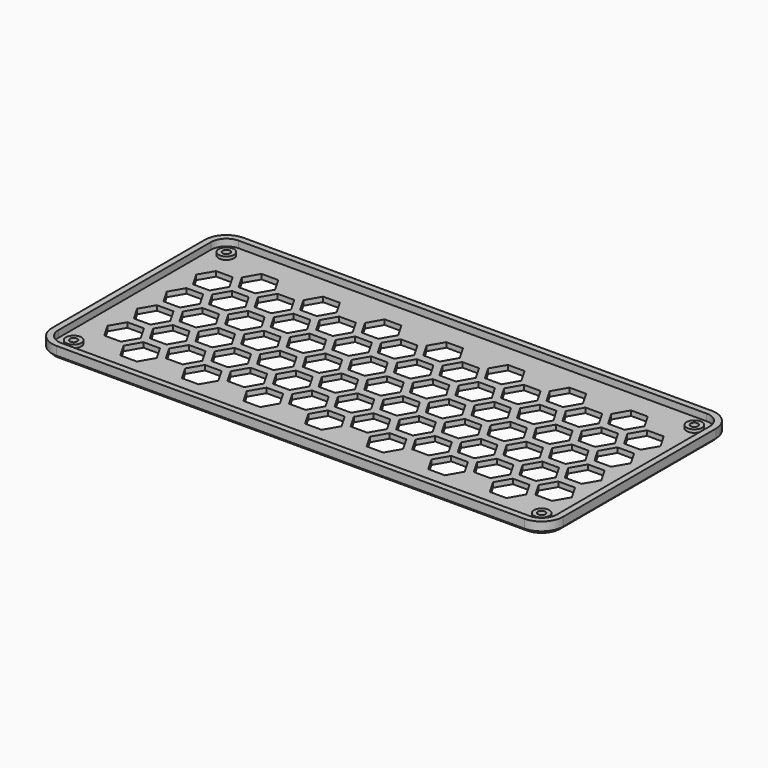
from build123d import *

# Parameters (mm, degrees)
PAD_DEPTH       = 2.032
PAD001_DEPTH    = 2.794
SKETCH002_R     = 3.175
PAD002_DEPTH    = 1.27
SKETCH005_R     = 1.524
POCKET_DEPTH    = 7.113
POCKET001_DEPTH = 5.0038
POCKET002_DEPTH = 5.0038
CHAMFER_SIZE    = 1.27


with BuildPart() as part:
    # Sketch → Pad (new body)
    with BuildSketch(Plane.XY):
        with BuildLine():
            Line((-96.52, 48.26), (96.52, 48.26))
            ThreePointArc((105.41, 39.37), (102.806179, 45.656179), (96.52, 48.26))
            Line((105.41, 39.37), (105.41, -39.37))
            ThreePointArc((96.52, -48.26), (102.806179, -45.656179), (105.41, -39.37))
            Line((96.52, -48.26), (-96.52, -48.26))
            ThreePointArc((-105.41, -39.37), (-102.806179, -45.656179), (-96.52, -48.26))
            Line((-105.41, -39.37), (-105.41, 39.37))
            ThreePointArc((-96.52, 48.26), (-102.806179, 45.656179), (-105.41, 39.37))
        make_face()
    extrude(amount=PAD_DEPTH)

    # Sketch001 (on Face10 of Pad) → Pad001 (join)
    with BuildSketch(Plane.XY.offset(2.032)):
        with BuildLine():
            ThreePointArc((-96.52, 48.26), (-102.806179, 45.656179), (-105.41, 39.37))
            Line((-105.41, -39.37), (-105.41, 39.37))
            ThreePointArc((-105.41, -39.37), (-102.806179, -45.656179), (-96.52, -48.26))
            Line((96.52, -48.26), (-96.52, -48.26))
            ThreePointArc((96.52, -48.26), (102.806179, -45.656179), (105.41, -39.37))
            Line((105.41, 39.37), (105.41, -39.37))
            ThreePointArc((105.41, 39.37), (102.806179, 45.656179), (96.52, 48.26))
            Line((-96.52, 48.26), (96.52, 48.26))
        make_face()
        with BuildLine():
            ThreePointArc((-96.52, 45.72), (-101.010128, 43.860128), (-102.87, 39.37))
            Line((-102.87, -39.37), (-102.87, 39.37))
            ThreePointArc((-102.87, -39.37), (-101.010128, -43.860128), (-96.52, -45.72))
            Line((96.52, -45.72), (-96.52, -45.72))
            ThreePointArc((96.52, -45.72), (101.010128, -43.860128), (102.87, -39.37))
            Line((102.87, 39.37), (102.87, -39.37))
            ThreePointArc((102.87, 39.37), (101.010128, 43.860128), (96.52, 45.72))
            Line((-96.52, 45.72), (96.52, 45.72))
        make_face(mode=Mode.SUBTRACT)
    extrude(amount=PAD001_DEPTH)

    # Sketch002 (on Face27 of Pad001) → Pad002 (join)
    with BuildSketch(Plane.XY.offset(2.032)):
        with Locations((-96.52, 39.37)):
            Circle(SKETCH002_R)
        with Locations((96.52, 39.37)):
            Circle(SKETCH002_R)
        with Locations((-96.52, -39.37)):
            Circle(SKETCH002_R)
        with Locations((96.52, -39.37)):
            Circle(SKETCH002_R)
    extrude(amount=PAD002_DEPTH)

    # Sketch005 → Pocket (cut, through all)
    with BuildSketch(Plane.XY.offset(7.112)):
        with Locations((-96.52, 39.37)):
            Circle(SKETCH005_R)
        with Locations((96.52, -39.37)):
            Circle(SKETCH005_R)
        with Locations((96.52, 39.37)):
            Circle(SKETCH005_R)
        with Locations((-96.52, -39.37)):
            Circle(SKETCH005_R)
    extrude(amount=-POCKET_DEPTH, mode=Mode.SUBTRACT)

    # Sketch003 (on Face4 of Pad002) → Pocket001 (cut)
    with BuildSketch(Plane(origin=(0, 0, 0), x_dir=(1, 0, 0), z_dir=(0, 0, -1))):
        Polygon((-69.342, 30.48), (-72.771, 36.419202), (-79.629, 36.419202), (-83.058, 30.48), (-79.629, 24.540798), (-72.771, 24.540798), align=None)
        Polygon((-43.942, 30.48), (-47.371, 36.419202), (-54.229, 36.419202), (-57.658, 30.48), (-54.229, 24.540798), (-47.371, 24.540798), align=None)
        Polygon((-18.542, 30.48), (-21.971, 36.419202), (-28.829, 36.419202), (-32.258, 30.48), (-28.829, 24.540798), (-21.971, 24.540798), align=None)
        Polygon((6.858, 30.48), (3.429, 36.419202), (-3.429, 36.419202), (-6.858, 30.48), (-3.429, 24.540798), (3.429, 24.540798), align=None)
        Polygon((32.258, 30.48), (28.829, 36.419202), (21.971, 36.419202), (18.542, 30.48), (21.971, 24.540798), (28.829, 24.540798), align=None)
        Polygon((57.658, 30.48), (54.229, 36.419202), (47.371, 36.419202), (43.942, 30.48), (47.371, 24.540798), (54.229, 24.540798), align=None)
        Polygon((83.058, 30.48), (79.629, 36.419202), (72.771, 36.419202), (69.342, 30.48), (72.771, 24.540798), (79.629, 24.540798), align=None)
        Polygon((-69.342, 15.24), (-72.771, 21.179202), (-79.629, 21.179202), (-83.058, 15.24), (-79.629, 9.300798), (-72.771, 9.300798), align=None)
        Polygon((-43.942, 15.24), (-47.371, 21.179202), (-54.229, 21.179202), (-57.658, 15.24), (-54.229, 9.300798), (-47.371, 9.300798), align=None)
        Polygon((-18.542, 15.24), (-21.971, 21.179202), (-28.829, 21.179202), (-32.258, 15.24), (-28.829, 9.300798), (-21.971, 9.300798), align=None)
        Polygon((6.858, 15.24), (3.429, 21.179202), (-3.429, 21.179202), (-6.858, 15.24), (-3.429, 9.300798), (3.429, 9.300798), align=None)
        Polygon((32.258, 15.24), (28.829, 21.179202), (21.971, 21.179202), (18.542, 15.24), (21.971, 9.300798), (28.829, 9.300798), align=None)
        Polygon((57.658, 15.24), (54.229, 21.179202), (47.371, 21.179202), (43.942, 15.24), (47.371, 9.300798), (54.229, 9.300798), align=None)
        Polygon((83.058, 15.24), (79.629, 21.179202), (72.771, 21.179202), (69.342, 15.24), (72.771, 9.300798), (79.629, 9.300798), align=None)
        Polygon((-69.342, 0), (-72.771, 5.939202), (-79.629, 5.939202), (-83.058, 0), (-79.629, -5.939202), (-72.771, -5.939202), align=None)
        Polygon((-43.942, 0), (-47.371, 5.939202), (-54.229, 5.939202), (-57.658, 0), (-54.229, -5.939202), (-47.371, -5.939202), align=None)
        Polygon((-18.542, 0), (-21.971, 5.939202), (-28.829, 5.939202), (-32.258, 0), (-28.829, -5.939202), (-21.971, -5.939202), align=None)
        Polygon((6.858, 0), (3.429, 5.939202), (-3.429, 5.939202), (-6.858, 0), (-3.429, -5.939202), (3.429, -5.939202), align=None)
        Polygon((32.258, 0), (28.829, 5.939202), (21.971, 5.939202), (18.542, 0), (21.971, -5.939202), (28.829, -5.939202), align=None)
        Polygon((57.658, 0), (54.229, 5.939202), (47.371, 5.939202), (43.942, 0), (47.371, -5.939202), (54.229, -5.939202), align=None)
        Polygon((83.058, 0), (79.629, 5.939202), (72.771, 5.939202), (69.342, 0), (72.771, -5.939202), (79.629, -5.939202), align=None)
        Polygon((-69.342, -15.24), (-72.771, -9.300798), (-79.629, -9.300798), (-83.058, -15.24), (-79.629, -21.179202), (-72.771, -21.179202), align=None)
        Polygon((-43.942, -15.24), (-47.371, -9.300798), (-54.229, -9.300798), (-57.658, -15.24), (-54.229, -21.179202), (-47.371, -21.179202), align=None)
        Polygon((-18.542, -15.24), (-21.971, -9.300798), (-28.829, -9.300798), (-32.258, -15.24), (-28.829, -21.179202), (-21.971, -21.179202), align=None)
        Polygon((6.858, -15.24), (3.429, -9.300798), (-3.429, -9.300798), (-6.858, -15.24), (-3.429, -21.179202), (3.429, -21.179202), align=None)
        Polygon((32.258, -15.24), (28.829, -9.300798), (21.971, -9.300798), (18.542, -15.24), (21.971, -21.179202), (28.829, -21.179202), align=None)
        Polygon((57.658, -15.24), (54.229, -9.300798), (47.371, -9.300798), (43.942, -15.24), (47.371, -21.179202), (54.229, -21.179202), align=None)
        Polygon((83.058, -15.24), (79.629, -9.300798), (72.771, -9.300798), (69.342, -15.24), (72.771, -21.179202), (79.629, -21.179202), align=None)
        Polygon((-69.342, -30.48), (-72.771, -24.540798), (-79.629, -24.540798), (-83.058, -30.48), (-79.629, -36.419202), (-72.771, -36.419202), align=None)
        Polygon((-43.942, -30.48), (-47.371, -24.540798), (-54.229, -24.540798), (-57.658, -30.48), (-54.229, -36.419202), (-47.371, -36.419202), align=None)
        Polygon((-18.542, -30.48), (-21.971, -24.540798), (-28.829, -24.540798), (-32.258, -30.48), (-28.829, -36.419202), (-21.971, -36.419202), align=None)
        Polygon((6.858, -30.48), (3.429, -24.540798), (-3.429, -24.540798), (-6.858, -30.48), (-3.429, -36.419202), (3.429, -36.419202), align=None)
        Polygon((32.258, -30.48), (28.829, -24.540798), (21.971, -24.540798), (18.542, -30.48), (21.971, -36.419202), (28.829, -36.419202), align=None)
        Polygon((57.658, -30.48), (54.229, -24.540798), (47.371, -24.540798), (43.942, -30.48), (47.371, -36.419202), (54.229, -36.419202), align=None)
        Polygon((83.058, -30.48), (79.629, -24.540798), (72.771, -24.540798), (69.342, -30.48), (72.771, -36.419202), (79.629, -36.419202), align=None)
    extrude(amount=-POCKET001_DEPTH, mode=Mode.SUBTRACT)

    # Sketch004 → Pocket002 (cut)
    with BuildSketch(Plane(origin=(0, 0, 0), x_dir=(1, 0, 0), z_dir=(0, 0, -1))):
        Polygon((-82.042, 22.86), (-85.471, 28.799202), (-92.329, 28.799202), (-95.758, 22.86), (-92.329, 16.920798), (-85.471, 16.920798), align=None)
        Polygon((-56.642, 22.86), (-60.071, 28.799202), (-66.929, 28.799202), (-70.358, 22.86), (-66.929, 16.920798), (-60.071, 16.920798), align=None)
        Polygon((-31.242, 22.86), (-34.671, 28.799202), (-41.529, 28.799202), (-44.958, 22.86), (-41.529, 16.920798), (-34.671, 16.920798), align=None)
        Polygon((-5.842, 22.86), (-9.271, 28.799202), (-16.129, 28.799202), (-19.558, 22.86), (-16.129, 16.920798), (-9.271, 16.920798), align=None)
        Polygon((19.558, 22.86), (16.129, 28.799202), (9.271, 28.799202), (5.842, 22.86), (9.271, 16.920798), (16.129, 16.920798), align=None)
        Polygon((44.958, 22.86), (41.529, 28.799202), (34.671, 28.799202), (31.242, 22.86), (34.671, 16.920798), (41.529, 16.920798), align=None)
        Polygon((70.358, 22.86), (66.929, 28.799202), (60.071, 28.799202), (56.642, 22.86), (60.071, 16.920798), (66.929, 16.920798), align=None)
        Polygon((95.758, 22.86), (92.329, 28.799202), (85.471, 28.799202), (82.042, 22.86), (85.471, 16.920798), (92.329, 16.920798), align=None)
        Polygon((-82.042, 7.62), (-85.471, 13.559202), (-92.329, 13.559202), (-95.758, 7.62), (-92.329, 1.680798), (-85.471, 1.680798), align=None)
        Polygon((-56.642, 7.62), (-60.071, 13.559202), (-66.929, 13.559202), (-70.358, 7.62), (-66.929, 1.680798), (-60.071, 1.680798), align=None)
        Polygon((-31.242, 7.62), (-34.671, 13.559202), (-41.529, 13.559202), (-44.958, 7.62), (-41.529, 1.680798), (-34.671, 1.680798), align=None)
        Polygon((-5.842, 7.62), (-9.271, 13.559202), (-16.129, 13.559202), (-19.558, 7.62), (-16.129, 1.680798), (-9.271, 1.680798), align=None)
        Polygon((19.558, 7.62), (16.129, 13.559202), (9.271, 13.559202), (5.842, 7.62), (9.271, 1.680798), (16.129, 1.680798), align=None)
        Polygon((44.958, 7.62), (41.529, 13.559202), (34.671, 13.559202), (31.242, 7.62), (34.671, 1.680798), (41.529, 1.680798), align=None)
        Polygon((70.358, 7.62), (66.929, 13.559202), (60.071, 13.559202), (56.642, 7.62), (60.071, 1.680798), (66.929, 1.680798), align=None)
        Polygon((95.758, 7.62), (92.329, 13.559202), (85.471, 13.559202), (82.042, 7.62), (85.471, 1.680798), (92.329, 1.680798), align=None)
        Polygon((-82.042, -7.62), (-85.471, -1.680798), (-92.329, -1.680798), (-95.758, -7.62), (-92.329, -13.559202), (-85.471, -13.559202), align=None)
        Polygon((-56.642, -7.62), (-60.071, -1.680798), (-66.929, -1.680798), (-70.358, -7.62), (-66.929, -13.559202), (-60.071, -13.559202), align=None)
        Polygon((-31.242, -7.62), (-34.671, -1.680798), (-41.529, -1.680798), (-44.958, -7.62), (-41.529, -13.559202), (-34.671, -13.559202), align=None)
        Polygon((-5.842, -7.62), (-9.271, -1.680798), (-16.129, -1.680798), (-19.558, -7.62), (-16.129, -13.559202), (-9.271, -13.559202), align=None)
        Polygon((19.558, -7.62), (16.129, -1.680798), (9.271, -1.680798), (5.842, -7.62), (9.271, -13.559202), (16.129, -13.559202), align=None)
        Polygon((44.958, -7.62), (41.529, -1.680798), (34.671, -1.680798), (31.242, -7.62), (34.671, -13.559202), (41.529, -13.559202), align=None)
        Polygon((70.358, -7.62), (66.929, -1.680798), (60.071, -1.680798), (56.642, -7.62), (60.071, -13.559202), (66.929, -13.559202), align=None)
        Polygon((95.758, -7.62), (92.329, -1.680798), (85.471, -1.680798), (82.042, -7.62), (85.471, -13.559202), (92.329, -13.559202), align=None)
        Polygon((-82.042, -22.86), (-85.471, -16.920798), (-92.329, -16.920798), (-95.758, -22.86), (-92.329, -28.799202), (-85.471, -28.799202), align=None)
        Polygon((-56.642, -22.86), (-60.071, -16.920798), (-66.929, -16.920798), (-70.358, -22.86), (-66.929, -28.799202), (-60.071, -28.799202), align=None)
        Polygon((-31.242, -22.86), (-34.671, -16.920798), (-41.529, -16.920798), (-44.958, -22.86), (-41.529, -28.799202), (-34.671, -28.799202), align=None)
        Polygon((-5.842, -22.86), (-9.271, -16.920798), (-16.129, -16.920798), (-19.558, -22.86), (-16.129, -28.799202), (-9.271, -28.799202), align=None)
        Polygon((19.558, -22.86), (16.129, -16.920798), (9.271, -16.920798), (5.842, -22.86), (9.271, -28.799202), (16.129, -28.799202), align=None)
        Polygon((44.958, -22.86), (41.529, -16.920798), (34.671, -16.920798), (31.242, -22.86), (34.671, -28.799202), (41.529, -28.799202), align=None)
        Polygon((70.358, -22.86), (66.929, -16.920798), (60.071, -16.920798), (56.642, -22.86), (60.071, -28.799202), (66.929, -28.799202), align=None)
        Polygon((95.758, -22.86), (92.329, -16.920798), (85.471, -16.920798), (82.042, -22.86), (85.471, -28.799202), (92.329, -28.799202), align=None)
    extrude(amount=-POCKET002_DEPTH, mode=Mode.SUBTRACT)

    # Chamfer
    chamfer_edges = [part.edges().sort_by_distance(p)[0] for p in [
        (0, 48.26, 0),
        (102.806179, 45.656179, 0),
        (105.41, 0, 0),
        (102.806179, -45.656179, 0),
        (0, -48.26, 0),
        (-102.806179, -45.656179, 0),
        (-105.41, 0, 0),
        (-102.806179, 45.656179, 0),
    ]]
    chamfer(chamfer_edges, length=CHAMFER_SIZE)


solid = part.part
